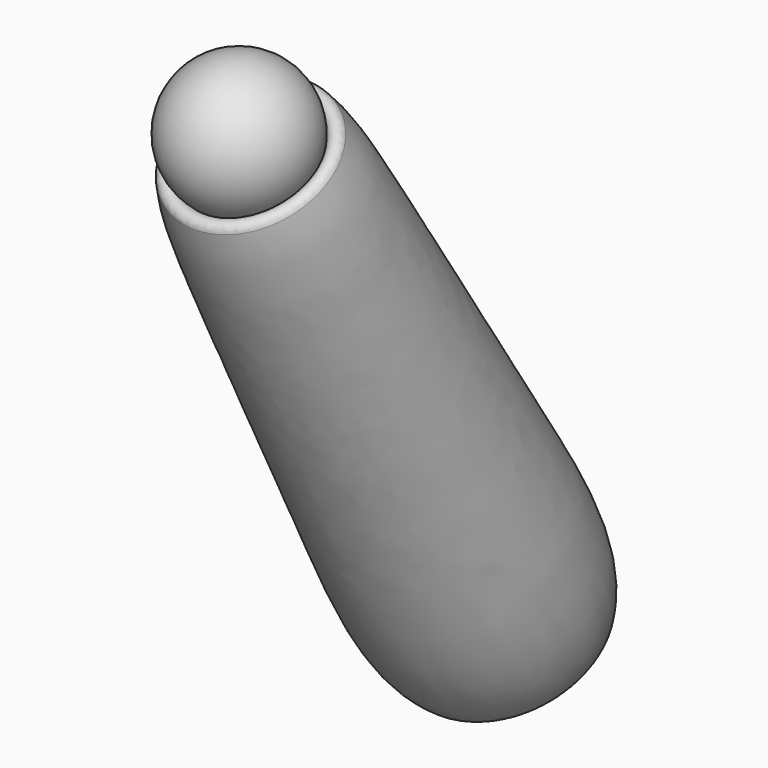
from build123d import *

# Parameters (mm, degrees)
FILLET088_R             = 3
FILLET089_R             = 3
BODY053_ROLL_ANGLE      = 86.032869
BODY053_PITCH_ANGLE     = -61.044976
BODY053_PLACEMENT_ANGLE = -93.967131


with BuildPart() as part:
    # Sketch178 → Revolution092 (revolve)
    with BuildSketch(Plane.XY):
        with BuildLine():
            Line((5.147949, 0), (267.265, 0))
            add(Edge.make_bspline(
                [(267.265, 0), (263.840897, 29.07099), (216.842712, 33.126465), (91.435905, 38.640092), (3.238657, 43.599544), (5.147949, 0)],
                knots=[0, 0, 0, 0, 0.333333, 0.666667, 1, 1, 1, 1], degree=3))
        make_face()
    revolve(axis=Axis((0, 0, 0), (1, 0, 0)))

    # Sketch179 → Groove086 (revolve, cut)
    with BuildSketch(Plane.XY):
        with BuildLine():
            Line((-35, 0), (35, 0))
            ThreePointArc((35, 0), (0, 35), (-35, 0))
        make_face()
    revolve(axis=Axis((0, 0, 0), (1, 0, 0)), mode=Mode.SUBTRACT)

    # Fillet088
    fillet088_edges = [part.edges().sort_by_distance(p)[0] for p in [
        (17.386166, -30.376327, 0),
    ]]
    fillet(fillet088_edges, radius=FILLET088_R)

    # Sketch180 → Groove087 (revolve, cut)
    with BuildSketch(Plane.XY):
        with BuildLine():
            Line((228, 0), (278, 0))
            ThreePointArc((278, 0), (253, 25), (228, 0))
        make_face()
    revolve(axis=Axis((0, 0, 0), (1, 0, 0)), mode=Mode.SUBTRACT)

    # Fillet089
    fillet089_edges = [part.edges().sort_by_distance(p)[0] for p in [
        (251.985595, -24.979411, 0),
    ]]
    fillet(fillet089_edges, radius=FILLET089_R)

    # Sketch180 → Revolution093 (revolve)
    with BuildSketch(Plane.XY):
        with BuildLine():
            Line((228, 0), (278, 0))
            ThreePointArc((278, 0), (253, 25), (228, 0))
        make_face()
    revolve(axis=Axis((0, 0, 0), (1, 0, 0)))


with BuildPart() as part_1:
    # Body053 roll: moved
    add(part.part.rotate(Axis((0, 0, 0), (1, 0, 0)), BODY053_ROLL_ANGLE))


with BuildPart() as part_2:
    # Body053 pitch: moved
    add(part_1.part.rotate(Axis((0, 0, 0), (0, 1, 0)), BODY053_PITCH_ANGLE))


with BuildPart() as part_3:
    # Body053 placement: moved
    add(part_2.part.moved(Location((208.153308, 1177.944739, 160.388141))).rotate(Axis((208.153308, 1177.944739, 160.388141), (0, 0, 1)), BODY053_PLACEMENT_ANGLE))


solid = part_3.part
